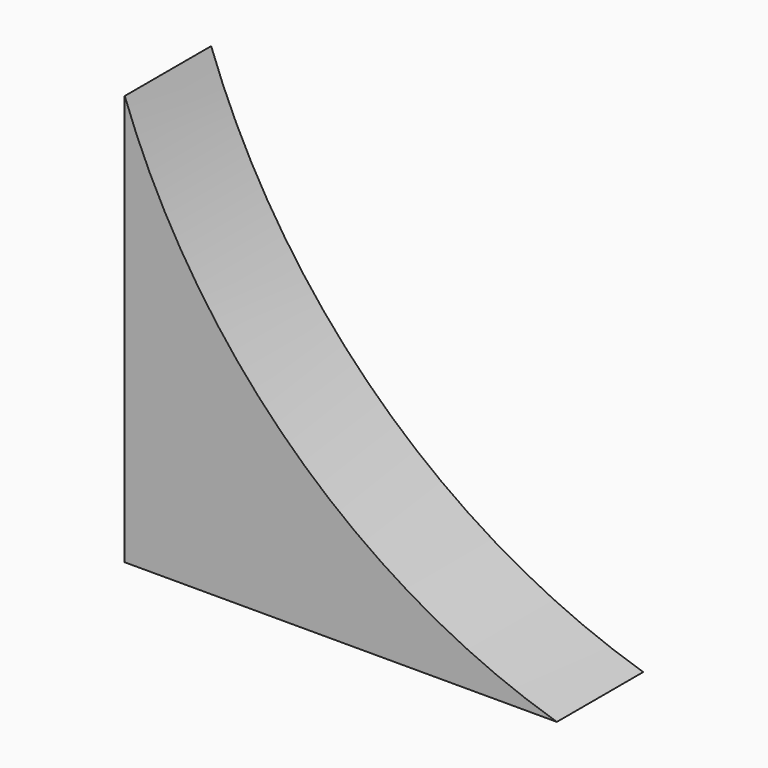
from build123d import *

# Parameters (mm, degrees)
F1_DEPTH = 25


with BuildPart() as f1:
    # F0 (on Front) → F1 (new body)
    with BuildSketch(Plane.XZ):
        with BuildLine():
            Line((0, 95), (0, 0))
            Line((0, 0), (100, 0))
            ThreePointArc((100, 0), (38.850471, 35.763653), (0, 95))
        make_face()
    extrude(amount=F1_DEPTH)


solid = f1.part
